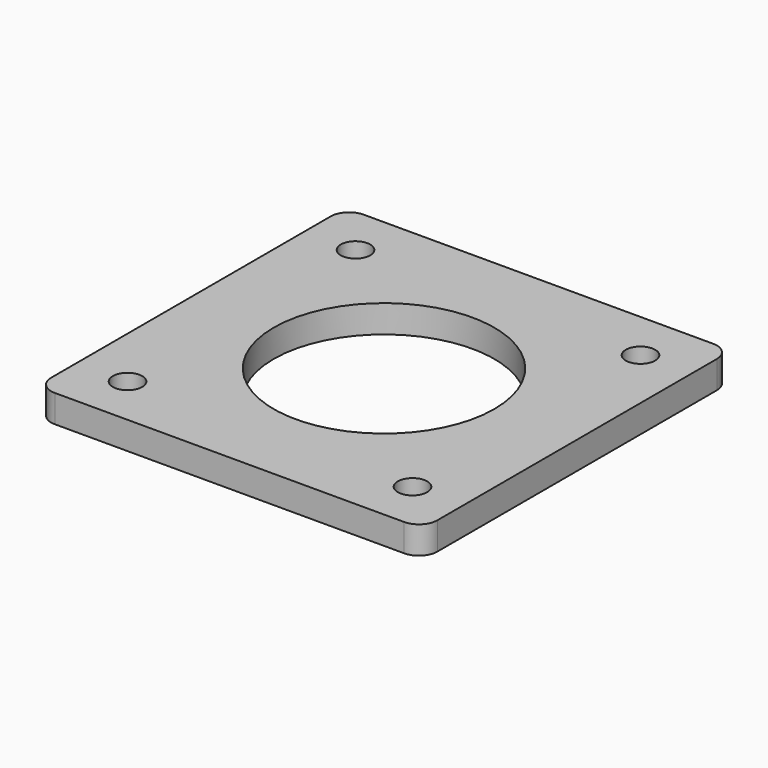
from build123d import *

# Parameters (mm, degrees)
CYLINDER018_R     = 1.6
CYLINDER018_DEPTH = 3
CYLINDER017_R     = 1.6
CYLINDER017_DEPTH = 3
CYLINDER016_R     = 1.6
CYLINDER016_DEPTH = 3
CYLINDER_R        = 1.6
CYLINDER_DEPTH    = 3
CYLINDER019_R     = 12
CYLINDER019_DEPTH = 3
BOX_W             = 42
BOX_H             = 42
BOX_DEPTH         = 3
FILLET_R          = 2


with BuildPart() as cylinder018:
    # Cylinder018 → Cylinder018 (new body)
    with BuildSketch(Plane(origin=(36.5, 36.5, 0), x_dir=(1, 0, 0), z_dir=(0, 0, 1))):
        Circle(CYLINDER018_R)
    extrude(amount=CYLINDER018_DEPTH)


with BuildPart() as cylinder017:
    # Cylinder017 → Cylinder017 (new body)
    with BuildSketch(Plane(origin=(36.5, 5.5, 0), x_dir=(1, 0, 0), z_dir=(0, 0, 1))):
        Circle(CYLINDER017_R)
    extrude(amount=CYLINDER017_DEPTH)


with BuildPart() as cylinder016:
    # Cylinder016 → Cylinder016 (new body)
    with BuildSketch(Plane(origin=(5.5, 36.5, 0), x_dir=(1, 0, 0), z_dir=(0, 0, 1))):
        Circle(CYLINDER016_R)
    extrude(amount=CYLINDER016_DEPTH)


with BuildPart() as cylinder:
    # Cylinder → Cylinder (new body)
    with BuildSketch(Plane(origin=(5.5, 5.5, 0), x_dir=(1, 0, 0), z_dir=(0, 0, 1))):
        Circle(CYLINDER_R)
    extrude(amount=CYLINDER_DEPTH)


with BuildPart() as fusion002002:
    # Cylinder019 → Cylinder019 (new body)
    with BuildSketch(Plane(origin=(21, 21, 0), x_dir=(1, 0, 0), z_dir=(0, 0, 1))):
        Circle(CYLINDER019_R)
    extrude(amount=CYLINDER019_DEPTH)

    # Fusion002002: union Cylinder018, Cylinder017, Cylinder016, Cylinder
    add(cylinder018.part)
    add(cylinder017.part)
    add(cylinder016.part)
    add(cylinder.part)


with BuildPart() as obj1:
    # Box → Box (new body)
    with BuildSketch(Plane.XY):
        with Locations((21, 21)):
            Rectangle(BOX_W, BOX_H)
    extrude(amount=BOX_DEPTH)

    # Fillet
    fillet_edges = [obj1.edges().sort_by_distance(p)[0] for p in [
        (0, 0, 1.5),
        (0, 42, 1.5),
        (42, 0, 1.5),
        (42, 42, 1.5),
    ]]
    fillet(fillet_edges, radius=FILLET_R)

    # Cut001: cut Fusion002002
    add(fusion002002.part, mode=Mode.SUBTRACT)


solid = obj1.part
